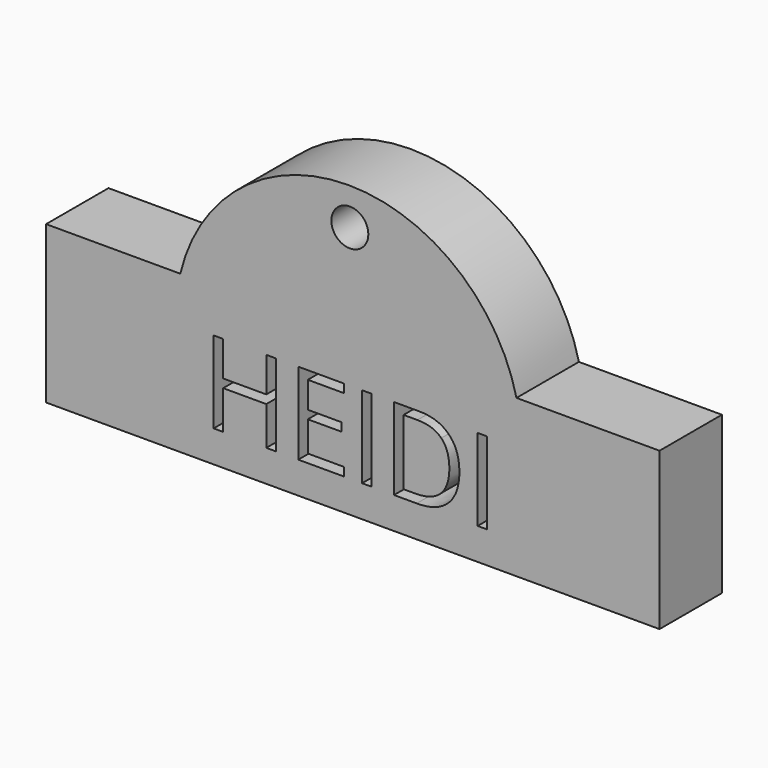
from build123d import *

# Parameters (mm, degrees)
F0_W     = 1.2201287218
F0_H     = 10.4986217135
F0_R     = 2.369108519
F1_DEPTH = 10


with BuildPart() as f1:
    # F0 (on Front) → F1 (new body)
    with BuildSketch(Plane.XZ):
        Polygon((-38.9495827258, 20.1365556568), (-38.9495827258, 0), (39.7058837116, 0), (39.7058837116, 20.1365556568), (21.3655456901, 20.1365556568), (-21.7436980456, 20.1365556568), align=None)
        Polygon((-9.4935023081, 14.5637483599), (-9.4935023081, 4.0651266463), (-10.7136310299, 4.0651266463), (-10.7136310299, 9.0053841828), (-16.2444216766, 9.0053841828), (-16.2444216766, 4.0651266463), (-17.4645503984, 4.0651266463), (-17.4645503984, 14.5637483599), (-16.2444216766, 14.5637483599), (-16.2444216766, 10.0968364292), (-10.7136310299, 10.0968364292), (-10.7136310299, 14.5637483599), align=None, mode=Mode.SUBTRACT)
        Polygon((-0.7618843367, 5.1565788927), (-0.7618843367, 4.0651266463), (-6.6143661718, 4.0651266463), (-6.6143661718, 14.5637483599), (-0.7618843367, 14.5637483599), (-0.7618843367, 13.479189496), (-5.39423745, 13.479189496), (-5.39423745, 10.0968364292), (-1.0422152295, 10.0968364292), (-1.0422152295, 9.019170948), (-5.39423745, 9.019170948), (-5.39423745, 5.1565788927), align=None, mode=Mode.SUBTRACT)
        with Locations((2.1735477576, 9.3144375031)):
            Rectangle(F0_W, F0_H, mode=Mode.SUBTRACT)
        with BuildLine():
            add(Edge.make_bspline(
                [(12.6859562364, 13.206900883), (14.0428037133, 11.8500534061), (14.0428037133, 9.4143915509)],
                knots=[0, 0, 0, 1, 1, 1], degree=2))
            add(Edge.make_bspline(
                [(14.0428037133, 9.4143915509), (14.0428037133, 6.8155863073), (12.6319580726, 5.4403564768)],
                knots=[0, 0, 0, 1, 1, 1], degree=2))
            add(Edge.make_bspline(
                [(12.6319580726, 5.4403564768), (11.221112432, 4.0651266463), (8.5717557159, 4.0651266463)],
                knots=[0, 0, 0, 1, 1, 1], degree=2))
            Line((8.5717557159, 4.0651266463), (5.6627482549, 4.0651266463))
            Line((5.6627482549, 4.0651266463), (5.6627482549, 14.5637483599))
            Line((5.6627482549, 14.5637483599), (8.8796601391, 14.5637483599))
            add(Edge.make_bspline(
                [(8.8796601391, 14.5637483599), (11.3291087595, 14.5637483599), (12.6859562364, 13.206900883)],
                knots=[0, 0, 0, 1, 1, 1], degree=2))
        make_face(mode=Mode.SUBTRACT)
        with Locations((16.9943203671, 9.3144375031)):
            Rectangle(F0_W, F0_H, mode=Mode.SUBTRACT)
        with BuildLine():
            ThreePointArc((21.3655456901, 20.1365556568), (-0.1890761778, 37.1565901502), (-21.7436980456, 20.1365556568))
            Line((-21.7436980456, 20.1365556568), (21.3655456901, 20.1365556568))
        make_face()
        with Locations((0, 32.4264727533)):
            Circle(F0_R, mode=Mode.SUBTRACT)
    extrude(amount=F1_DEPTH)


with BuildPart() as f1b:
    # F0 (on Front) → F1, piece 2 (new body)
    with BuildSketch(Plane.XZ):
        with BuildLine():
            add(Edge.make_bspline(
                [(11.6519488451, 6.1940329754), (12.7514433712, 7.2682517653), (12.7514433712, 9.3707334611)],
                knots=[0, 0, 0, 1, 1, 1], degree=2))
            add(Edge.make_bspline(
                [(12.7514433712, 9.3707334611), (12.7514433712, 11.4249614785), (11.7208826711, 12.4658622525)],
                knots=[0, 0, 0, 1, 1, 1], degree=2))
            add(Edge.make_bspline(
                [(11.7208826711, 12.4658622525), (10.6903219711, 13.5067630265), (8.6567741014, 13.5067630265)],
                knots=[0, 0, 0, 1, 1, 1], degree=2))
            Line((8.6567741014, 13.5067630265), (6.8828769767, 13.5067630265))
            Line((6.8828769767, 13.5067630265), (6.8828769767, 5.1198141855))
            Line((6.8828769767, 5.1198141855), (8.3695498261, 5.1198141855))
            add(Edge.make_bspline(
                [(8.3695498261, 5.1198141855), (10.5524543189, 5.1198141855), (11.6519488451, 6.1940329754)],
                knots=[0, 0, 0, 1, 1, 1], degree=2))
        make_face()
    extrude(amount=F1_DEPTH)


solid = Compound([f1.part, f1b.part])
